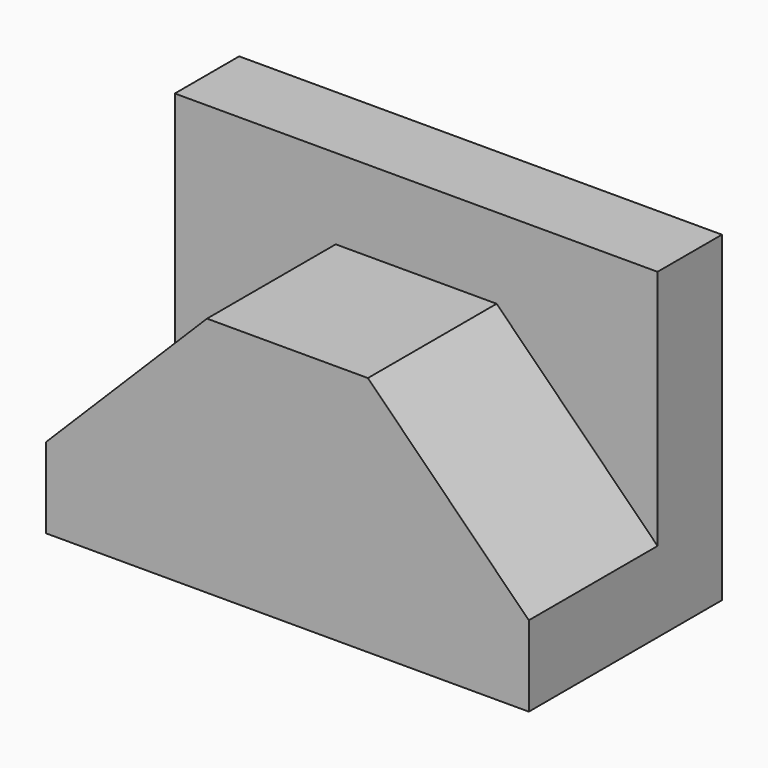
from build123d import *

# Parameters (mm, degrees)
F0_W     = 152.4
F0_H     = 76.2
F1_DEPTH = 101.6
F3_DEPTH = 50.8


with BuildPart() as f1:
    # F0 (on Top) → F1 (new body)
    with BuildSketch(Plane.XY):
        with Locations((3.813397, -37.091119)):
            Rectangle(F0_W, F0_H)
    extrude(amount=F1_DEPTH)

    # F2 (on face) → F3 (cut)
    with BuildSketch(Plane.XZ.offset(75.191119)):
        Polygon((29.213397, 76.2), (80.013397, 25.4), (80.013397, 101.6), (-72.386603, 101.6), (-72.386603, 25.4), (-21.586603, 76.2), align=None)
    extrude(amount=-F3_DEPTH, mode=Mode.SUBTRACT)


solid = f1.part
